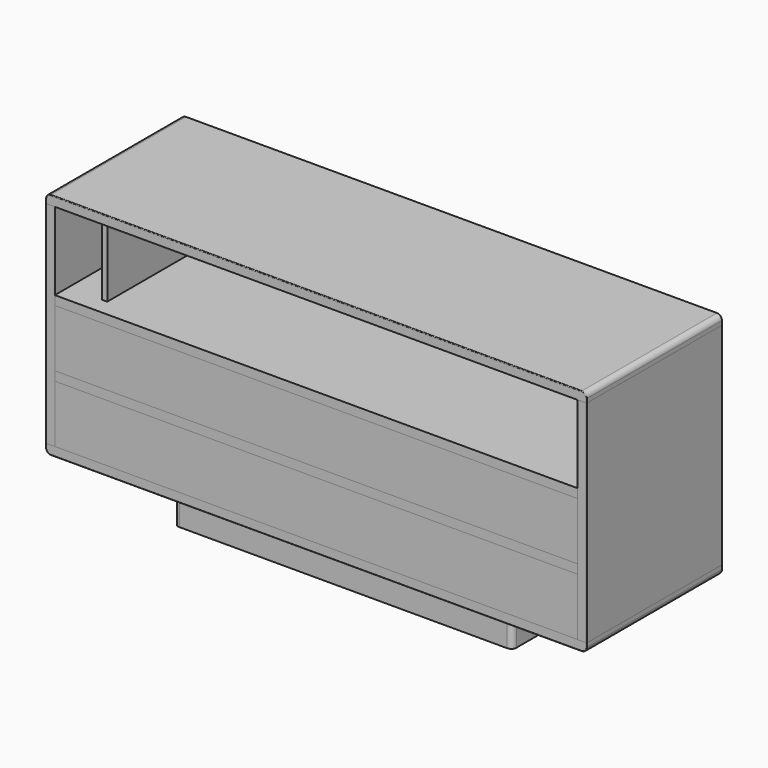
from build123d import *

# Parameters (mm, degrees)
F13_DEPTH = 500
F10_W     = 773
F10_H     = 27
F11_W     = 800
F11_H     = 27
F12_W     = 27
F12_H     = 624
F15_W     = 1546
F15_H     = 170
F16_DEPTH = 25
F17_R     = 15
F17_2_R   = 15
F18_R     = 2
F18_2_R   = 2
F18_3_R   = 2
F18_4_R   = 2
F19_W     = 1000
F19_H     = 130
F20_DEPTH = 400
F22_START = 50
F21_W     = 15
F21_H     = 230
F22_DEPTH = 400
F23_R     = 15


with BuildPart() as f13:
    # F8 (on Front) → F13 (new body, through all)
    with BuildSketch(Plane.XZ):
        Polygon((0, 651), (-800, 651), (-800, 624), (0, 624), (800, 624), (800, 651), align=None)
    extrude(amount=F13_DEPTH)

    # F17#2
    f17_2_edges = [f13.edges().sort_by_distance(p)[0] for p in [
        (-800, -250, 651),
        (800, -250, 651),
    ]]
    fillet(f17_2_edges, radius=F17_2_R)

    # F18
    f18_edges = [f13.edges().sort_by_distance(p)[0] for p in [
        (0, -500, 651),
    ]]
    fillet(f18_edges, radius=F18_R)


with BuildPart() as f13b:
    # F9 (on Front) → F13, piece 2 (new body, through all)
    with BuildSketch(Plane.XZ):
        Polygon((-773, 394), (-773, 367), (0, 367), (773, 367), (773, 394), (0, 394), align=None)
    extrude(amount=F13_DEPTH)


with BuildPart() as f13c:
    # F10 (on Front) → F13, piece 3 (new body, through all)
    with BuildSketch(Plane.XZ):
        with Locations((-386.5, 183.5)):
            Rectangle(F10_W, F10_H)
        with Locations((386.5, 183.5)):
            Rectangle(F10_W, F10_H)
    extrude(amount=F13_DEPTH)


with BuildPart() as f13d:
    # F11 (on Front) → F13, piece 4 (new body, through all)
    with BuildSketch(Plane.XZ):
        with Locations((-400, -13.5)):
            Rectangle(F11_W, F11_H)
        with Locations((400, -13.5)):
            Rectangle(F11_W, F11_H)
    extrude(amount=F13_DEPTH)

    # F17
    f17_edges = [f13d.edges().sort_by_distance(p)[0] for p in [
        (-800, -250, -27),
        (800, -250, -27),
    ]]
    fillet(f17_edges, radius=F17_R)

    # F18#3
    f18_3_edges = [f13d.edges().sort_by_distance(p)[0] for p in [
        (0, -500, -27),
    ]]
    fillet(f18_3_edges, radius=F18_3_R)

    # F19 (on Front) → F20 (join)
    with BuildSketch(Plane.XZ):
        with Locations((0, -92)):
            Rectangle(F19_W, F19_H)
    extrude(amount=F20_DEPTH)

    # F23
    f23_edges = [f13d.edges().sort_by_distance(p)[0] for p in [
        (-500, -400, -92),
        (500, -400, -92),
    ]]
    fillet(f23_edges, radius=F23_R)


with BuildPart() as f13e:
    # F12 (on Front) → F13, piece 5 (new body, through all)
    with BuildSketch(Plane.XZ):
        with Locations((-786.5, 312)):
            Rectangle(F12_W, F12_H)
    extrude(amount=F13_DEPTH)


with BuildPart() as f14_1:
    # F14: instance of F13e
    add(f13e.part.mirror(Plane.YZ))

    # F18#4
    f18_4_edges = [f14_1.edges().sort_by_distance(p)[0] for p in [
        (800, -500, 312),
    ]]
    fillet(f18_4_edges, radius=F18_4_R)


with BuildPart() as f16:
    # F15 (on offset) → F16 (new body)
    with BuildSketch(Plane.XZ.offset(500)):
        with Locations((0, 282)):
            Rectangle(F15_W, F15_H)
    extrude(amount=-F16_DEPTH)


with BuildPart() as f16b:
    # F15 (on offset) → F16, piece 2 (new body)
    with BuildSketch(Plane.XZ.offset(500)):
        with Locations((0, 85)):
            Rectangle(F15_W, F15_H)
    extrude(amount=-F16_DEPTH)


with BuildPart() as f13e_1:
    add(f13e.part)

    # F18#2
    f18_2_edges = [f13e_1.edges().sort_by_distance(p)[0] for p in [
        (-800, -500, 312),
    ]]
    fillet(f18_2_edges, radius=F18_2_R)


with BuildPart() as f22:
    # F21 (on Front) → F22 (new body)
    with BuildSketch(Plane.XZ.offset(F22_START)):
        with Locations((-665.5, 509)):
            Rectangle(F21_W, F21_H)
    extrude(amount=F22_DEPTH)


solid = Compound([f13.part, f13b.part, f13c.part, f13d.part, f14_1.part, f16.part, f16b.part, f13e_1.part, f22.part])
